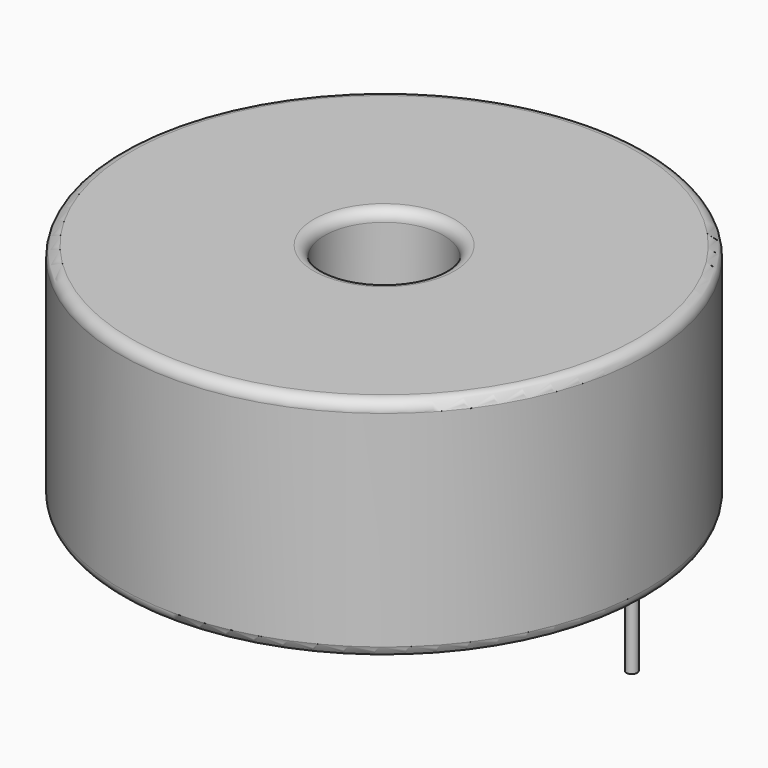
from build123d import *

# Parameters (mm, degrees)
SKETCH001_R       = 0.25
PAD001_DEPTH      = 5.25
PAD001_DEPTH_BACK = 3.5
SKETCH_R          = 12.2
SKETCH_R_2        = 2.75
PAD_DEPTH         = 10.5
FILLET_R          = 0.5


with BuildPart() as pad001:
    # Sketch001 → Pad001 (new body, two sides)
    with BuildSketch(Plane.XY.offset(0.5)) as pad001_sk:
        Circle(SKETCH001_R)
        with Locations((22.9, 0)):
            Circle(SKETCH001_R)
    extrude(amount=PAD001_DEPTH)
    extrude(pad001_sk.sketch, amount=-PAD001_DEPTH_BACK)


with BuildPart() as obj1:
    # Sketch → Pad (new body)
    with BuildSketch(Plane.XY.offset(0.1)):
        with Locations((11.45, 0)):
            Circle(SKETCH_R)
        with Locations((11.45, 0)):
            Circle(SKETCH_R_2, mode=Mode.SUBTRACT)
    extrude(amount=PAD_DEPTH)

    # Fillet
    fillet_edges = [obj1.edges().sort_by_distance(p)[0] for p in [
        (8.7, 0, 10.6),
        (-0.75, 0, 10.6),
        (-0.75, 0, 0.1),
    ]]
    fillet(fillet_edges, radius=FILLET_R)

    # obj1: union Pad001
    add(pad001.part)


solid = obj1.part
